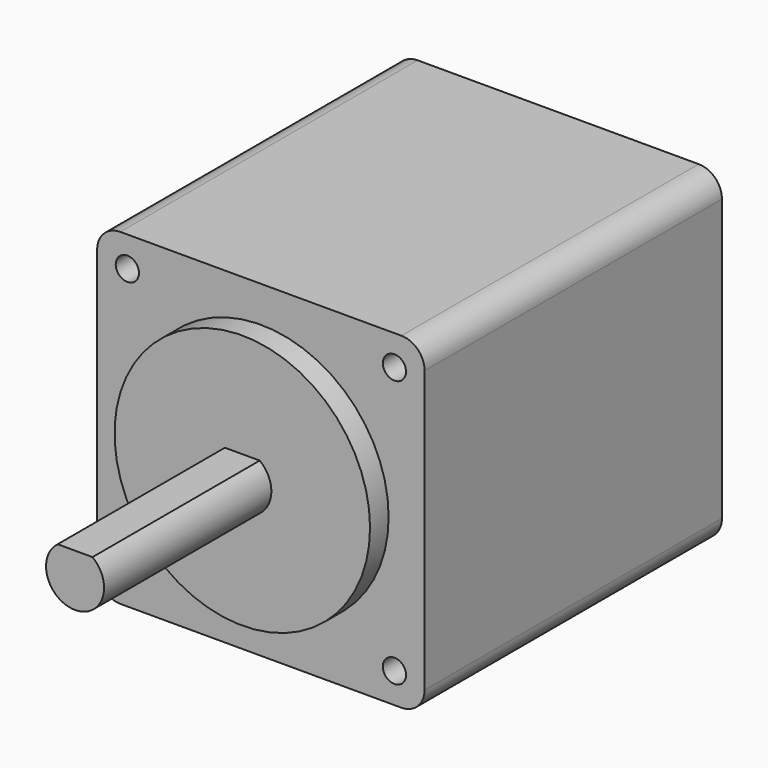
from build123d import *

# Parameters (mm, degrees)
F0_W     = 28.2
F0_H     = 28.2
F1_DEPTH = 32
F2_R     = 11
F3_DEPTH = 2
F5_DEPTH = 18
F7_D     = 2
F7_DEPTH = 4.5
F7_TIP   = 0.600860619
F8_R     = 2


with BuildPart() as f1:
    # F0 (on Front) → F1 (new body)
    with BuildSketch(Plane.XZ):
        Rectangle(F0_W, F0_H)
    extrude(amount=-F1_DEPTH)

    # F2 (on Front) → F3 (join)
    with BuildSketch(Plane.XZ):
        Circle(F2_R)
    extrude(amount=F3_DEPTH)

    # F4 (on face) → F5 (join)
    with BuildSketch(Plane.XZ.offset(2)):
        with BuildLine():
            Line((1.5, 2), (-1.5, 2))
            ThreePointArc((-1.5, 2), (0, -2.5), (1.5, 2))
        make_face()
    extrude(amount=F5_DEPTH)

    # F7
    with Locations(Plane.XZ):
        with Locations((-11.5, 11.5), (11.5, 11.5), (11.5, -11.5), (-11.5, -11.5)):
            Hole(F7_D / 2, depth=F7_DEPTH)
            with Locations((0, 0, -(F7_DEPTH + F7_TIP / 2))):  # 118° drill point
                Cone(0, F7_D / 2, F7_TIP, mode=Mode.SUBTRACT)

    # F8
    f8_edges = [f1.edges().sort_by_distance(p)[0] for p in [
        (14.1, 16, 14.1),
        (14.1, 16, -14.1),
        (-14.1, 16, 14.1),
        (-14.1, 16, -14.1),
    ]]
    fillet(f8_edges, radius=F8_R)


solid = f1.part
